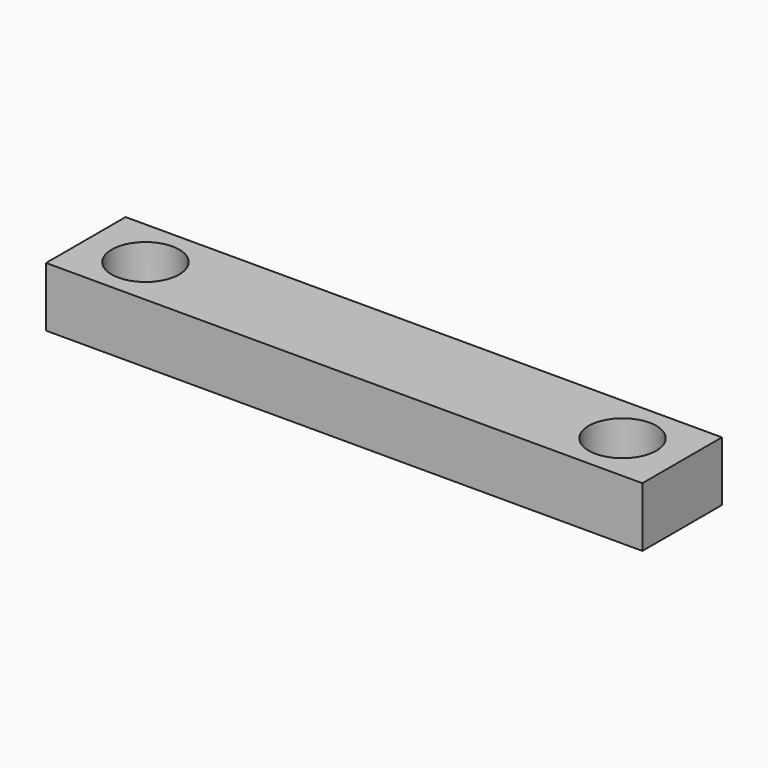
from build123d import *

# Parameters (mm, degrees)
CYLINDER004_R     = 1.7
CYLINDER004_DEPTH = 10
CYLINDER003_R     = 1.7
CYLINDER003_DEPTH = 10
BOX008_W          = 30
BOX008_H          = 5
BOX008_DEPTH      = 3


with BuildPart() as cylinder004:
    # Cylinder004 → Cylinder004 (new body)
    with BuildSketch(Plane(origin=(27, 2.5, 0), x_dir=(1, 0, 0), z_dir=(0, 0, 1))):
        Circle(CYLINDER004_R)
    extrude(amount=CYLINDER004_DEPTH)


with BuildPart() as cylinder003:
    # Cylinder003 → Cylinder003 (new body)
    with BuildSketch(Plane(origin=(3, 2.5, 0), x_dir=(1, 0, 0), z_dir=(0, 0, 1))):
        Circle(CYLINDER003_R)
    extrude(amount=CYLINDER003_DEPTH)


with BuildPart() as obj1:
    # Box008 → Box008 (new body)
    with BuildSketch(Plane.XY):
        with Locations((15, 2.5)):
            Rectangle(BOX008_W, BOX008_H)
    extrude(amount=BOX008_DEPTH)

    # Cut006: cut Cylinder003
    add(cylinder003.part, mode=Mode.SUBTRACT)

    # Cut007: cut Cylinder004
    add(cylinder004.part, mode=Mode.SUBTRACT)


solid = obj1.part
